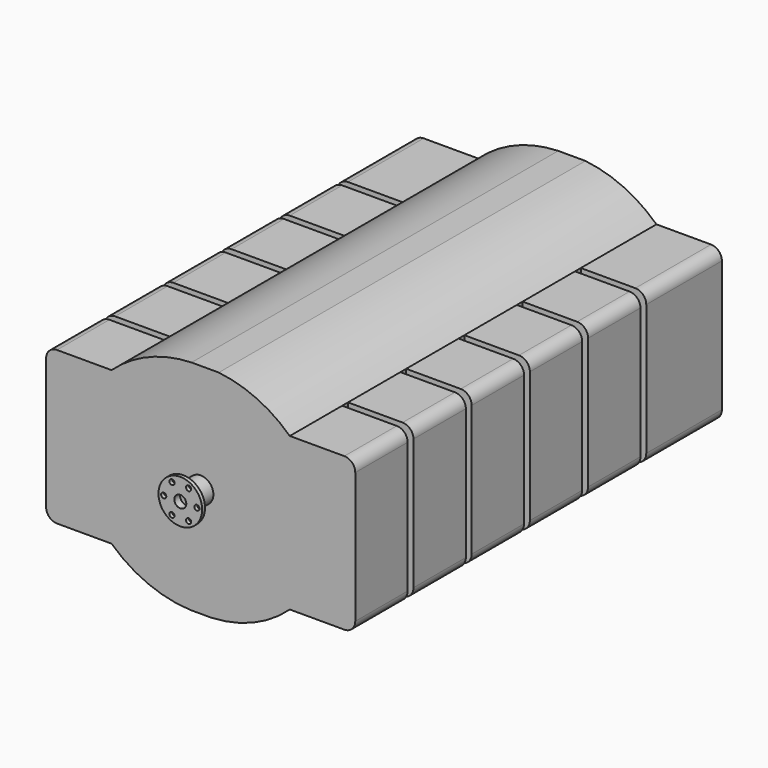
from build123d import *

# Parameters (mm, degrees)
F0_W      = 1079.5
F0_H      = 762
F1_DEPTH  = 1600.2
F3_DEPTH  = 2032
F4_W      = 228.6
F4_H      = 25.4
F5_DEPTH  = 889
F6_W      = 228.6
F6_H      = 25.4
F7_DEPTH  = 762
F9_DEPTH  = 2032
F10_R     = 44.45
F11_DEPTH = 76.2
F12_R     = 76.2
F12_R_2   = 44.45
F13_DEPTH = 12.7
F14_R     = 9.0043
F14_R_2   = 20.8788
F15_DEPTH = 25.4


with BuildPart() as f1:
    # F0 (on Front) → F1 (new body)
    with BuildSketch(Plane.XZ):
        Rectangle(F0_W, F0_H)
    extrude(amount=F1_DEPTH)

    # F2 (on face) → F3 (cut)
    with BuildSketch(Plane.XZ.offset(1600.2)):
        with BuildLine():
            Line((-539.75, 381), (-539.75, 266.7))
            Line((-539.75, 266.7), (-311.15, 266.7))
            ThreePointArc((-311.15, 266.7), (-181.819542348, 349.0410030714), (-31.8694487214, 381))
            Line((-31.8694487214, 381), (-539.75, 381))
        make_face()
        with BuildLine():
            Line((539.75, 381), (63.2200438553, 381))
            ThreePointArc((63.2200438553, 381), (196.4561263356, 343.9601006936), (311.15, 266.7))
            Line((311.15, 266.7), (539.75, 266.7))
            Line((539.75, 266.7), (539.75, 381))
        make_face()
        with BuildLine():
            ThreePointArc((311.15, -266.7), (183.8275613975, -348.3038933111), (36.1753911372, -381))
            Line((36.1753911372, -381), (539.75, -381))
            Line((539.75, -381), (539.75, -266.7))
            Line((539.75, -266.7), (311.15, -266.7))
        make_face()
        with BuildLine():
            Line((-311.15, -266.7), (-539.75, -266.7))
            Line((-539.75, -266.7), (-539.75, -381))
            Line((-539.75, -381), (-36.1753911372, -381))
            ThreePointArc((-36.1753911372, -381), (-183.8275613975, -348.3038933111), (-311.15, -266.7))
        make_face()
    extrude(amount=-F3_DEPTH, mode=Mode.SUBTRACT)

    # F4 (on face) → F5 (cut)
    with BuildSketch(Plane.XY.offset(266.7)):
        with Locations((-425.45, -1358.9)):
            Rectangle(F4_W, F4_H)
        with Locations((-425.45, -1104.9)):
            Rectangle(F4_W, F4_H)
        with Locations((-425.45, -850.9)):
            Rectangle(F4_W, F4_H)
        with Locations((-425.45, -596.9)):
            Rectangle(F4_W, F4_H)
        with Locations((-425.45, -342.9)):
            Rectangle(F4_W, F4_H)
    extrude(amount=-F5_DEPTH, mode=Mode.SUBTRACT)

    # F6 (on face) → F7 (cut)
    with BuildSketch(Plane.XY.offset(266.7)):
        with Locations((425.45, -1358.9)):
            Rectangle(F6_W, F6_H)
        with Locations((425.45, -1104.9)):
            Rectangle(F6_W, F6_H)
        with Locations((425.45, -850.9)):
            Rectangle(F6_W, F6_H)
        with Locations((425.45, -596.9)):
            Rectangle(F6_W, F6_H)
        with Locations((425.45, -342.9)):
            Rectangle(F6_W, F6_H)
    extrude(amount=-F7_DEPTH, mode=Mode.SUBTRACT)

    # F8 (on face) → F9 (cut)
    with BuildSketch(Plane.XZ.offset(1600.2)):
        with BuildLine():
            ThreePointArc((-539.75, 228.6), (-528.5907683632, 255.5407683632), (-501.65, 266.7))
            Line((-501.65, 266.7), (-539.75, 266.7))
            Line((-539.75, 266.7), (-539.75, 228.6))
        make_face()
        with BuildLine():
            ThreePointArc((-501.65, -266.7), (-528.5907683632, -255.5407683632), (-539.75, -228.6))
            Line((-539.75, -228.6), (-539.75, -266.7))
            Line((-539.75, -266.7), (-501.65, -266.7))
        make_face()
        with BuildLine():
            Line((539.75, -266.7), (539.75, -228.6))
            ThreePointArc((539.75, -228.6), (528.5907683632, -255.5407683632), (501.65, -266.7))
            Line((501.65, -266.7), (539.75, -266.7))
        make_face()
        with BuildLine():
            Line((539.75, 266.7), (501.65, 266.7))
            ThreePointArc((501.65, 266.7), (528.5907683632, 255.5407683632), (539.75, 228.6))
            Line((539.75, 228.6), (539.75, 266.7))
        make_face()
    extrude(amount=-F9_DEPTH, mode=Mode.SUBTRACT)

    # F10 (on face) → F11 (join)
    with BuildSketch(Plane.XZ.offset(1600.2)):
        Circle(F10_R)
    extrude(amount=F11_DEPTH)

    # F12 (on face) → F13 (join)
    with BuildSketch(Plane.XZ.offset(1676.4)):
        Circle(F12_R)
        Circle(F12_R_2, mode=Mode.SUBTRACT)
        Circle(F12_R_2)
    extrude(amount=F13_DEPTH)

    # F14 (on face) → F15 (cut)
    with BuildSketch(Plane.XZ.offset(1689.1)):
        with Locations((-28.9941, 50.2192543197)):
            Circle(F14_R)
        with Locations((-57.9882, 0)):
            Circle(F14_R)
        with Locations((-28.9941, -50.2192543197)):
            Circle(F14_R)
        with Locations((29.0321442983, -50.2412)):
            Circle(F14_R)
        with Locations((57.9882, 0)):
            Circle(F14_R)
        with Locations((28.9941, 50.2192543197)):
            Circle(F14_R)
        Circle(F14_R_2)
    extrude(amount=-F15_DEPTH, mode=Mode.SUBTRACT)


solid = f1.part
